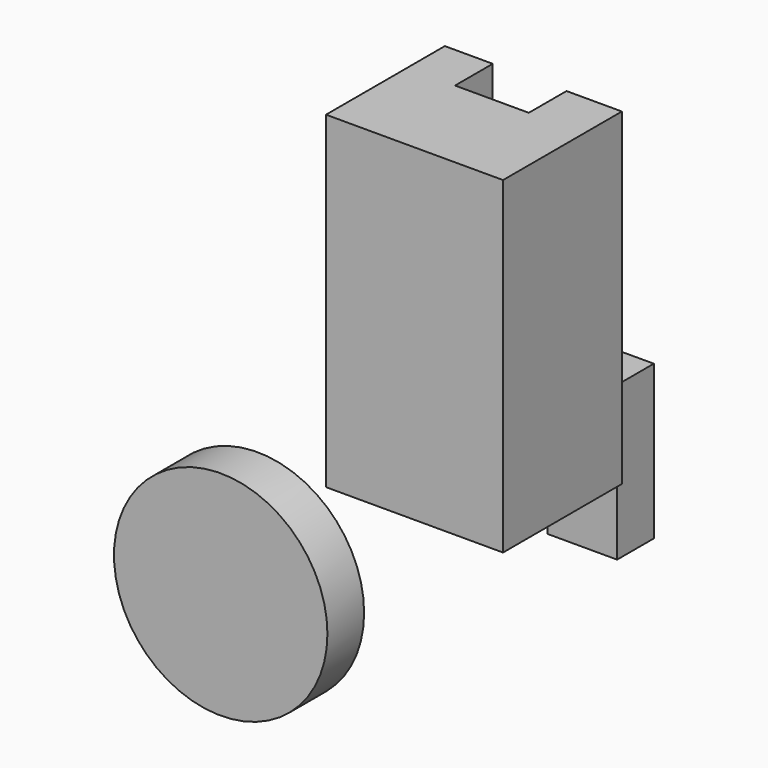
from build123d import *

# Parameters (mm, degrees)
F1_DEPTH = 181.607502
F3_W     = 38.464784
F3_H     = 85.2229
F4_DEPTH = 25.4
F6_R     = 59.104875
F7_DEPTH = 25.4


with BuildPart() as f1:
    # F0 (on Top) → F1 (new body)
    with BuildSketch(Plane.XY):
        Polygon((-12.703069, 38.402505), (-39.238244, 38.402505), (-39.238244, -43.860435), (58.807462, -43.860435), (58.807462, 38.402505), (28.152674, 38.402505), (28.152674, 12.301743), (-12.703069, 12.301743), align=None)
    extrude(amount=F1_DEPTH)


with BuildPart() as f4:
    # F3 (on offset) → F4 (new body)
    with BuildSketch(Plane.XZ.offset(-100.021111)):
        with Locations((7.975608, -19.287422)):
            Rectangle(F3_W, F3_H)
    extrude(amount=F4_DEPTH)


with BuildPart() as f7:
    # F6 (on offset) → F7 (new body)
    with BuildSketch(Plane.XZ.offset(140.396399)):
        with Locations((0, 10.000259)):
            Circle(F6_R)
    extrude(amount=F7_DEPTH)


solid = Compound([f1.part, f4.part, f7.part])
